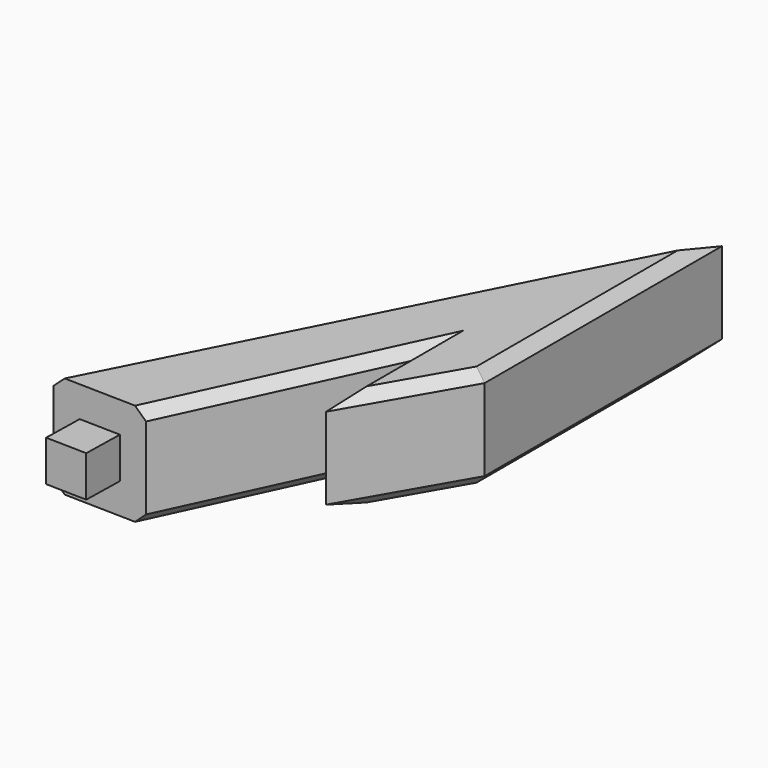
from build123d import *

# Parameters (mm, degrees)
F1_DEPTH = 10
F2_W     = 4
F2_H     = 4
F3_DEPTH = 4
F4_SIZE  = 1


with BuildPart() as f1:
    # F0 (on Top) → F1 (new body)
    with BuildSketch(Plane.XY):
        Polygon((0, 11), (0, 0), (6.5, 11.2583302492), (6.5, 40.2583302492), (-18.9234679854, -9.6380351054), (-9.72022002, -9.8450791018), align=None)
    extrude(amount=F1_DEPTH)

    # F2 (on face) → F3 (join)
    with BuildSketch(Plane(origin=(-0.2262881219, -10.0586625682, 0), x_dir=(0.9997470421, -0.0224911492, 0), z_dir=(-0.0224911492, -0.9997470421, 0))):
        with Locations((-14.0991223651, 5)):
            Rectangle(F2_W, F2_H)
    extrude(amount=F3_DEPTH)

    # F4
    f4_edges = [f1.edges().sort_by_distance(p)[0] for p in [
        (-4.86011, 0.57746, 10),
        (0, 5.5, 10),
        (3.25, 5.629165, 10),
        (6.5, 25.75833, 10),
        (-6.211734, 15.310148, 10),
        (6.5, 25.75833, 0),
        (-6.211734, 15.310148, 0),
        (3.25, 5.629165, 0),
        (0, 5.5, 0),
        (-4.86011, 0.57746, 0),
    ]]
    chamfer(f4_edges, length=F4_SIZE)


solid = f1.part
